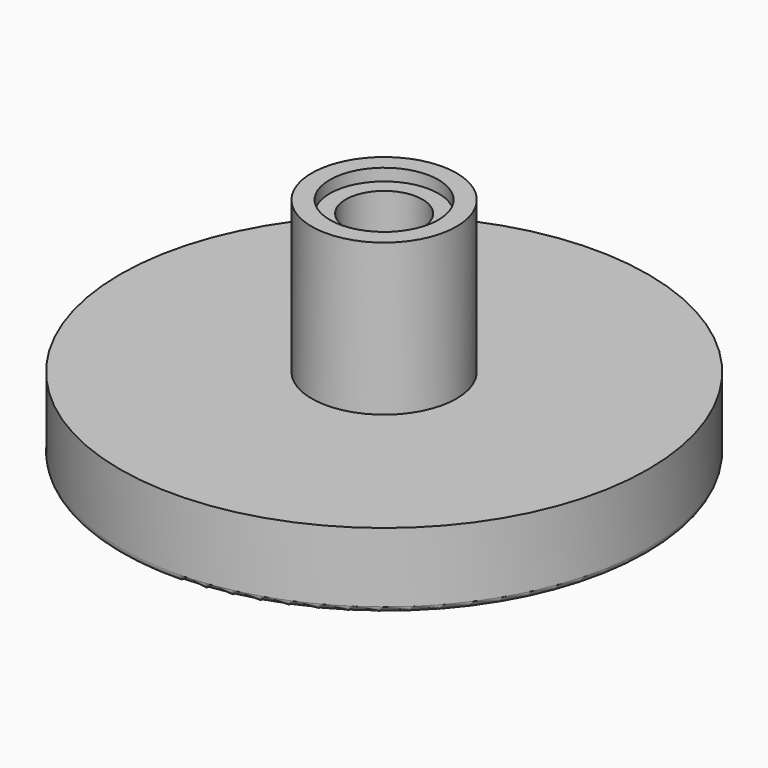
from build123d import *

# Parameters (mm, degrees)
F0_R     = 11.1125
F0_R_2   = 3.048
F1_DEPTH = 3.175
F3_R     = 3.048
F4_DEPTH = 9.5504
F2_R     = 1.6129
F5_DEPTH = 25.4
F6_R     = 1.6129
F7_DEPTH = 3.175
F9_DEPTH = 0.508
F10_R    = 0.254


with BuildPart() as f1:
    # F0 (on Top) → F1 (new body)
    with BuildSketch(Plane.XY):
        Circle(F0_R)
        Circle(F0_R_2, mode=Mode.SUBTRACT)
    extrude(amount=F1_DEPTH)

    # F3 (on face) → F4 (join)
    with BuildSketch(Plane(origin=(0, 0, 0), x_dir=(1, 0, 0), z_dir=(0, 0, -1))):
        Circle(F3_R)
    extrude(amount=-F4_DEPTH)

    # F2 (on Top) → F5 (cut)
    with BuildSketch(Plane.XY):
        Circle(F2_R)
    extrude(amount=F5_DEPTH, mode=Mode.SUBTRACT)

    # F6 (on face) → F7 (join)
    with BuildSketch(Plane(origin=(0, 0, 0), x_dir=(1, 0, 0), z_dir=(0, 0, -1))):
        Circle(F6_R)
    extrude(amount=-F7_DEPTH)

    # F8 (on face) → F9 (cut)
    with BuildSketch(Plane.XY.offset(9.5504)):
        with BuildLine():
            ThreePointArc((2.286, 0), (0, 2.286), (-2.286, 0))
            ThreePointArc((-2.286, 0), (0, -2.286), (2.286, 0))
        make_face()
    extrude(amount=-F9_DEPTH, mode=Mode.SUBTRACT)

    # F10
    f10_edges = [f1.edges().sort_by_distance(p)[0] for p in [
        (-11.1125, 0, 0),
    ]]
    fillet(f10_edges, radius=F10_R)


solid = f1.part
